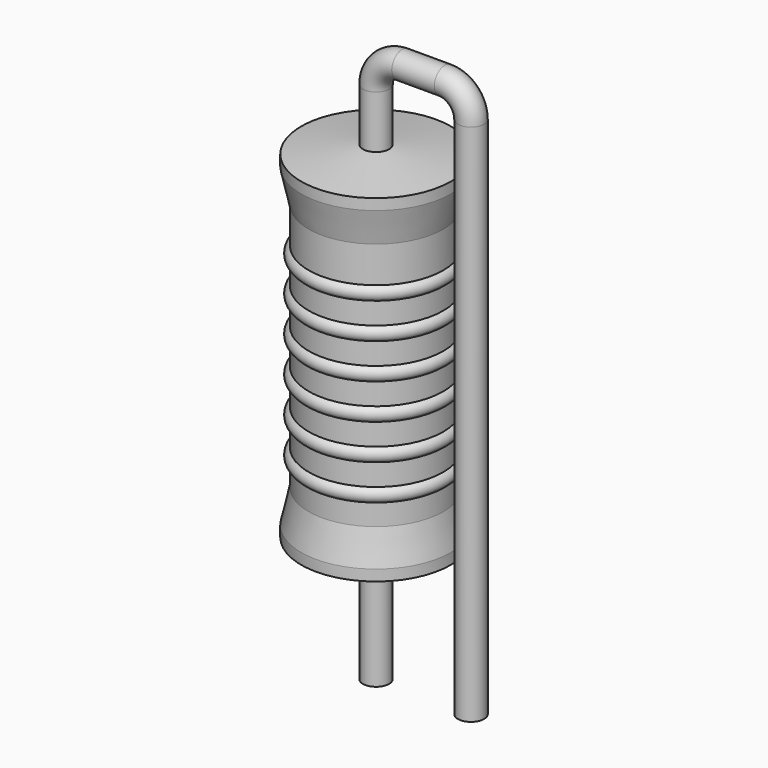
from build123d import *

# Parameters (mm, degrees)
SKETCH_R = 0.35


with BuildPart() as sweep_body:
    # Sweep: sweep along a path in Sketch001
    with BuildLine(Plane.XZ) as sweep_path:
        Line((0, -3), (0, 11))
        ThreePointArc((0, 11), (0.205029, 11.494979), (0.700012, 11.7))
        Line((0.700012, 11.7), (1.84, 11.7))
        ThreePointArc((1.84, 11.7), (2.334975, 11.494975), (2.54, 11))
        Line((2.54, 11), (2.54, -3))
    # Sketch → Sweep (sweep)
    with BuildSketch(Plane.XY.offset(-2)):
        Circle(SKETCH_R)
    sweep(path=sweep_path.line)


with BuildPart() as revolution:
    # Sketch002 → Revolution (revolve)
    with BuildSketch(Plane.XZ):
        Polygon((0, 0.1), (0, 9.6), (0.2625, 9.6), (2, 9.3625), (2, 9.07), (1.8, 8.175), (1.8, 1.525), (2, 0.63), (2, 0.3375), (0.2625, 0.1), align=None)
    revolve(axis=Axis((0, 0, 0), (0, 0, 1)))


with BuildPart() as revolution001:
    # Sketch003 → Revolution001 (revolve)
    with BuildSketch(Plane.XZ):
        with BuildLine():
            Line((1.6, 7.775), (1.6, 1.525))
            Line((1.6, 1.525), (1.72, 1.525))
            Line((1.72, 1.525), (1.72, 2.075))
            ThreePointArc((1.72, 2.075), (1.92, 2.275), (1.72, 2.475))
            Line((1.72, 2.475), (1.72, 3.025))
            ThreePointArc((1.72, 3.025), (1.92, 3.225), (1.72, 3.425))
            Line((1.72, 3.425), (1.72, 3.975))
            ThreePointArc((1.72, 3.975), (1.92, 4.175), (1.72, 4.375))
            Line((1.72, 4.375), (1.72, 4.925))
            ThreePointArc((1.72, 4.925), (1.92, 5.125), (1.72, 5.325))
            Line((1.72, 5.325), (1.72, 5.875))
            ThreePointArc((1.72, 5.875), (1.92, 6.075), (1.72, 6.275))
            Line((1.72, 6.275), (1.72, 6.825))
            ThreePointArc((1.72, 6.825), (1.92, 7.025), (1.72, 7.225))
            Line((1.72, 7.775), (1.72, 7.225))
            Line((1.6, 7.775), (1.72, 7.775))
        make_face()
    revolve(axis=Axis((0, 0, 0), (0, 0, 1)))


solid = Compound([sweep_body.part, revolution.part, revolution001.part])
